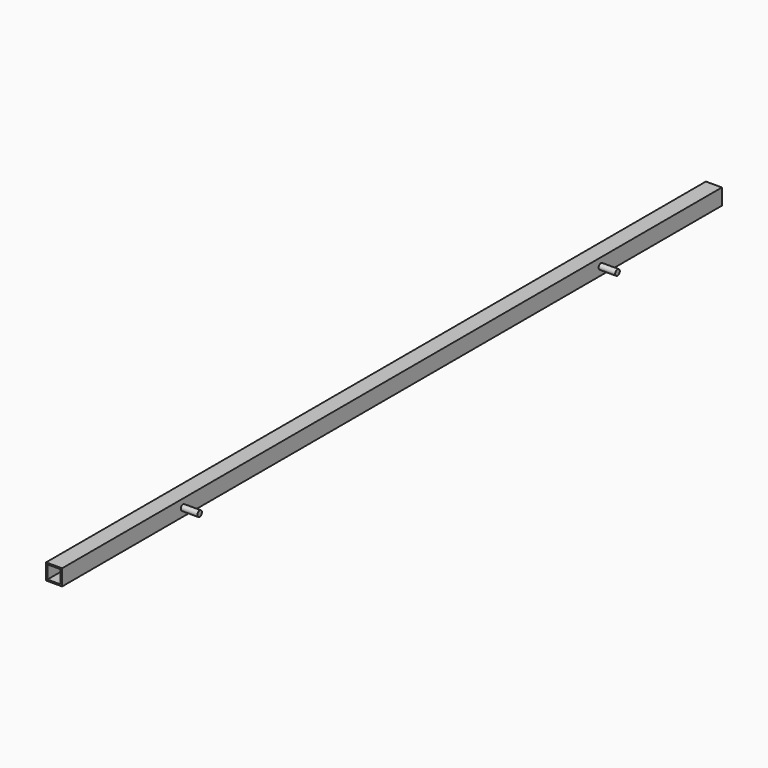
from build123d import *

# Parameters (mm, degrees)
F0_W     = 35
F0_H     = 35
F0_W_2   = 29
F0_H_2   = 29
F1_DEPTH = 900
F2_R     = 6.25
F3_DEPTH = 71.12


with BuildPart() as f1:
    # F0 (on Front) → F1 (new body, symmetric)
    with BuildSketch(Plane.XZ):
        with Locations((-217.5, -12.8159002215)):
            Rectangle(F0_W, F0_H)
        with Locations((-217.5, -12.8159002215)):
            Rectangle(F0_W_2, F0_H_2, mode=Mode.SUBTRACT)
    extrude(amount=F1_DEPTH, both=True)

    # F2 (on face) → F3 (join)
    with BuildSketch(Plane(origin=(-235, 0, 0), x_dir=(0, -1, 0), z_dir=(-1, 0, 0))):
        with Locations((-569.976, -12.8159002215)):
            Circle(F2_R)
        with Locations((569.976, -12.8159002215)):
            Circle(F2_R)
    extrude(amount=-F3_DEPTH)


solid = f1.part
